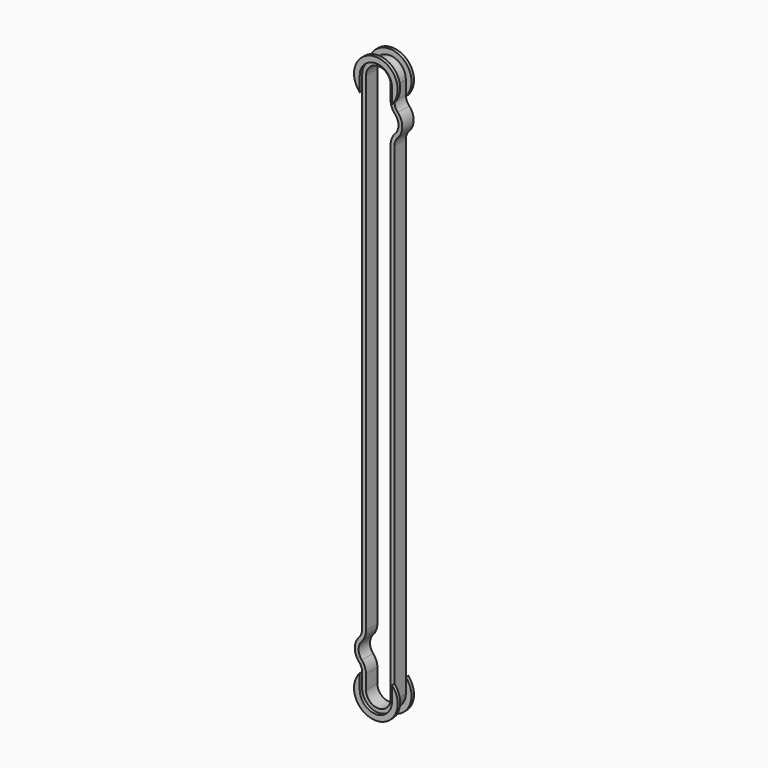
from build123d import *

# Parameters (mm, degrees)
PAD004_DEPTH      = 3
PAD006_DEPTH      = 1.3
PAD006_DEPTH_BACK = 0.01
PAD007_DEPTH      = 1.3
PAD007_DEPTH_BACK = 0.001


with BuildPart() as part:
    # Sketch018 → Pad004 (new body, symmetric)
    with BuildSketch(Plane(origin=(71.2, -37.6, 0), x_dir=(1, 0, 0), z_dir=(0, -1, 0))):
        with BuildLine():
            ThreePointArc((-6.8, 11), (0, 4.2), (6.8, 11))
            Line((6.8, 11), (6.8, 216.735014))
            ThreePointArc((8.23, 220.316508), (7.170714, 218.663225), (6.8, 216.735014))
            ThreePointArc((8.23, 220.316508), (10.1, 225), (8.23, 229.683492))
            ThreePointArc((6.8, 233.264986), (7.170714, 231.336775), (8.23, 229.683492))
            Line((6.8, 239), (6.8, 233.264986))
            ThreePointArc((6.8, 239), (0, 245.8), (-6.8, 239))
            Line((-6.8, 33.049224), (-6.8, 239))
            ThreePointArc((-8.143333, 29.561227), (-7.147441, 31.180356), (-6.8, 33.049224))
            ThreePointArc((-8.143333, 29.561227), (-9.9, 25), (-8.143333, 20.438773))
            ThreePointArc((-6.8, 16.950776), (-7.147441, 18.819644), (-8.143333, 20.438773))
            Line((-6.8, 11), (-6.8, 16.950776))
        make_face()
        with BuildLine():
            ThreePointArc((-5.2, 11), (0, 5.8), (5.2, 11))
            Line((5.2, 11), (5.2, 216.735014))
            ThreePointArc((7.07, 221.418506), (5.68478, 219.256521), (5.2, 216.735014))
            ThreePointArc((7.07, 221.418506), (8.5, 225), (7.07, 228.581494))
            ThreePointArc((5.2, 233.264986), (5.68478, 230.743479), (7.07, 228.581494))
            Line((5.2, 239), (5.2, 233.264986))
            ThreePointArc((5.2, 239), (0, 244.2), (-5.2, 239))
            Line((-5.2, 33.049224), (-5.2, 239))
            ThreePointArc((-6.956667, 28.487997), (-5.654345, 30.60532), (-5.2, 33.049224))
            ThreePointArc((-6.956667, 28.487997), (-8.3, 25), (-6.956667, 21.512003))
            ThreePointArc((-5.2, 16.950776), (-5.654345, 19.39468), (-6.956667, 21.512003))
            Line((-5.2, 11), (-5.2, 16.950776))
        make_face(mode=Mode.SUBTRACT)
    extrude(amount=PAD004_DEPTH, both=True)

    # Sketch020 (on Face26 of Pad004) → Pad006 (join, two sides)
    with BuildSketch(Plane.XZ.offset(40.6)) as pad006_sk:
        with BuildLine():
            ThreePointArc((64.4, 11), (71.2, 4.2), (78, 11))
            Line((78, 17.196773), (78, 11))
            ThreePointArc((64.4, 17.196773), (71.2, 1.8), (78, 17.196773))
            Line((64.4, 17.196773), (64.4, 11))
        make_face()
        with BuildLine():
            ThreePointArc((78, 239), (71.2, 245.8), (64.4, 239))
            Line((64.4, 232.803227), (64.4, 239))
            ThreePointArc((78, 232.803227), (71.2, 248.2), (64.4, 232.803227))
            Line((78, 232.803227), (78, 239))
        make_face()
    extrude(amount=PAD006_DEPTH)
    extrude(pad006_sk.sketch, amount=-PAD006_DEPTH_BACK)

    # Sketch021 (on Face2 of Pad006) → Pad007 (join, two sides)
    with BuildSketch(Plane(origin=(0, -34.6, 0), x_dir=(1, 0, 0), z_dir=(0, 1, 0))) as pad007_sk:
        with BuildLine():
            ThreePointArc((78, -11), (71.2, -4.2), (64.4, -11))
            Line((64.4, -17.196773), (64.4, -11))
            ThreePointArc((78, -17.196773), (71.2, -1.8), (64.4, -17.196773))
            Line((78, -17.196773), (78, -11))
        make_face()
        with BuildLine():
            ThreePointArc((64.4, -239), (71.2, -245.8), (78, -239))
            Line((78, -232.803227), (78, -239))
            ThreePointArc((64.4, -232.803227), (71.2, -248.2), (78, -232.803227))
            Line((64.4, -232.803227), (64.4, -239))
        make_face()
    extrude(amount=PAD007_DEPTH)
    extrude(pad007_sk.sketch, amount=-PAD007_DEPTH_BACK)


solid = part.part
